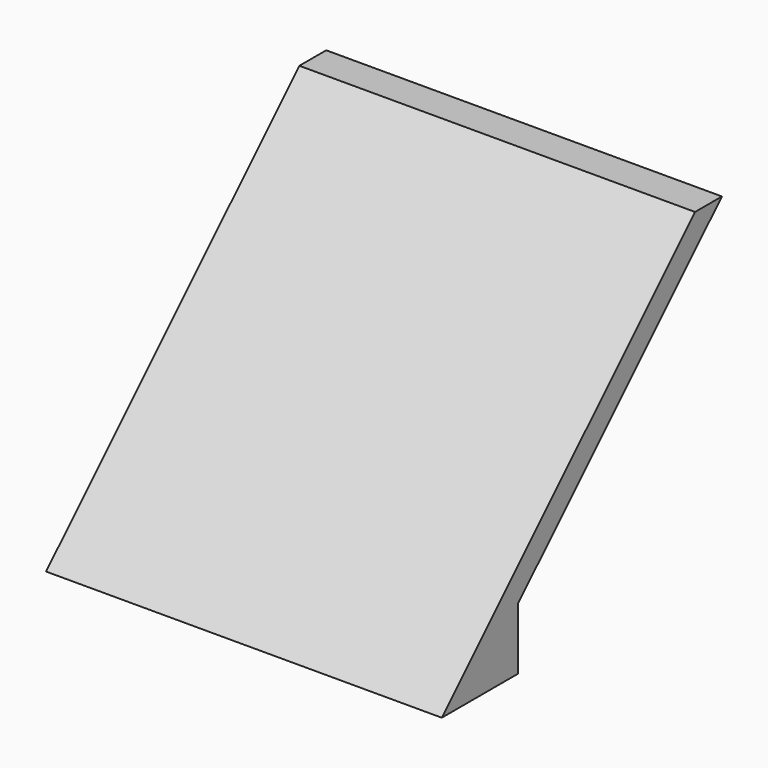
from build123d import *

# Parameters (mm, degrees)
F1_DEPTH = 50


with BuildPart() as f1:
    # F0 (on Right) → F1 (new body)
    with BuildSketch(Plane.YZ):
        Polygon((40, 40), (0, 0), (4.242641, 0), (12, 7.757359), (44.242641, 40), align=None)
        Polygon((12, 7.757359), (4.242641, 0), (12, 0), align=None)
    extrude(amount=F1_DEPTH)


solid = f1.part
